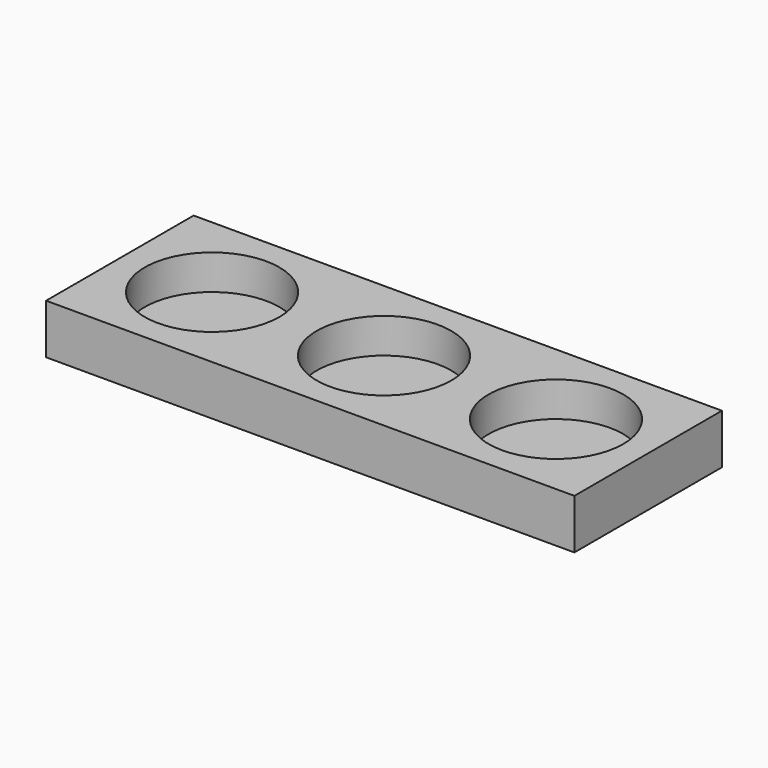
from build123d import *

# Parameters (mm, degrees)
F0_W     = 106
F0_H     = 37
F0_R     = 13.5
F1_DEPTH = 10
F2_DEPTH = 3


with BuildPart() as f1:
    # F0 (on Top) → F1 (new body)
    with BuildSketch(Plane.XY):
        Rectangle(F0_W, F0_H)
        with Locations((-34.5, 0)):
            Circle(F0_R, mode=Mode.SUBTRACT)
        Circle(F0_R, mode=Mode.SUBTRACT)
        with Locations((34.5, 0)):
            Circle(F0_R, mode=Mode.SUBTRACT)
    extrude(amount=F1_DEPTH)

    # F0 (on Top) → F2 (join)
    with BuildSketch(Plane.XY):
        Circle(F0_R)
        with Locations((-34.5, 0)):
            Circle(F0_R)
        with Locations((34.5, 0)):
            Circle(F0_R)
    extrude(amount=F2_DEPTH)


solid = f1.part
